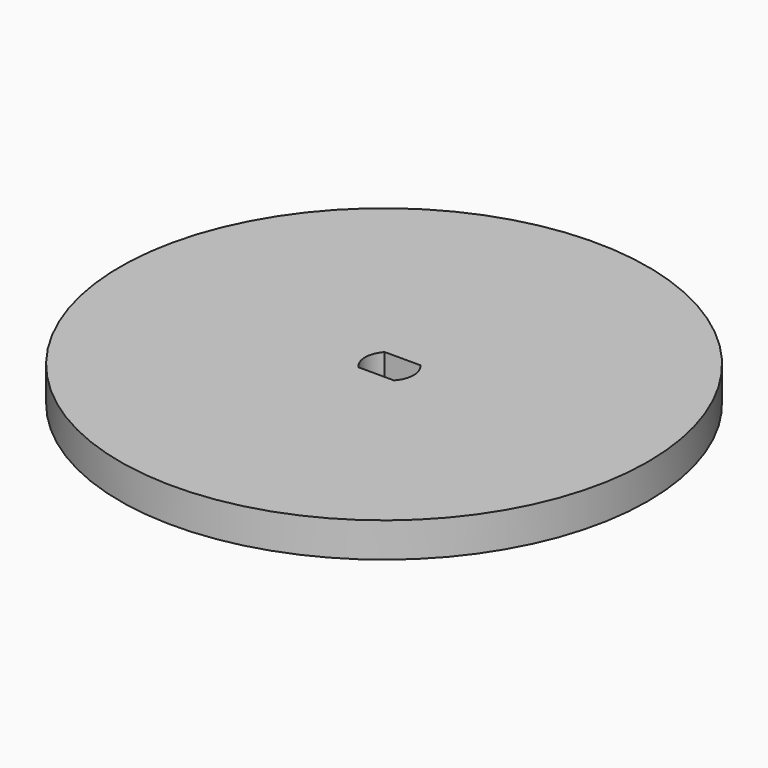
from build123d import *

# Parameters (mm, degrees)
F0_R     = 38.1
F1_DEPTH = 5


with BuildPart() as f1:
    # F0 (on Top) → F1 (new body)
    with BuildSketch(Plane.XY):
        with Locations((-0.759739487, 0)):
            Circle(F0_R)
        with BuildLine():
            ThreePointArc((2.5708704752, 2.375), (3.2594513851, 1.2751379018), (3.5, 0))
            ThreePointArc((3.5, 0), (3.2594513851, -1.2751379018), (2.5708704752, -2.375))
            ThreePointArc((2.5708704752, -2.375), (0, -3.5), (-2.5708704752, -2.375))
            ThreePointArc((-2.5708704752, -2.375), (-3.5, 0), (-2.5708704752, 2.375))
            ThreePointArc((-2.5708704752, 2.375), (0, 3.5), (2.5708704752, 2.375))
        make_face(mode=Mode.SUBTRACT)
        with BuildLine():
            Line((-2.5708704752, 2.375), (2.5708704752, 2.375))
            ThreePointArc((2.5708704752, 2.375), (0, 3.5), (-2.5708704752, 2.375))
        make_face()
        with BuildLine():
            ThreePointArc((-2.5708704752, -2.375), (0, -3.5), (2.5708704752, -2.375))
            Line((2.5708704752, -2.375), (-2.5708704752, -2.375))
        make_face()
    extrude(amount=F1_DEPTH)


solid = f1.part
